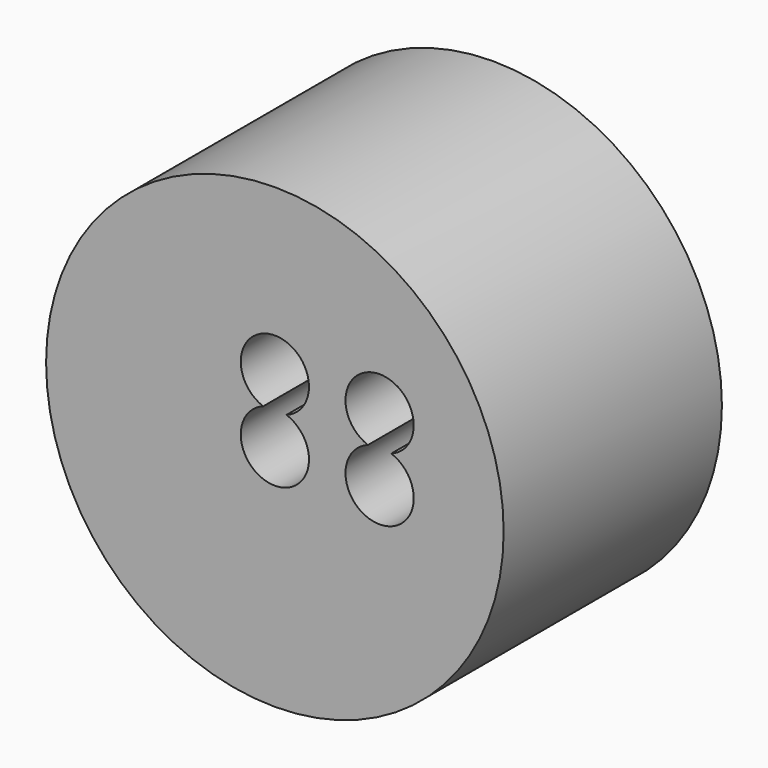
from build123d import *

# Parameters (mm, degrees)
F0_R     = 21.299559
F1_DEPTH = 25.4
F3_D     = 6.35


with BuildPart() as f1:
    # F0 (on Front) → F1 (new body)
    with BuildSketch(Plane.XZ):
        Circle(F0_R)
    extrude(amount=-F1_DEPTH)

    # F3 (through all)
    with Locations(Plane.XZ):
        with Locations((9.751112, 0), (9.751112, 5.969675), (0, 0), (0, 5.969675)):
            Hole(F3_D / 2)


solid = f1.part
